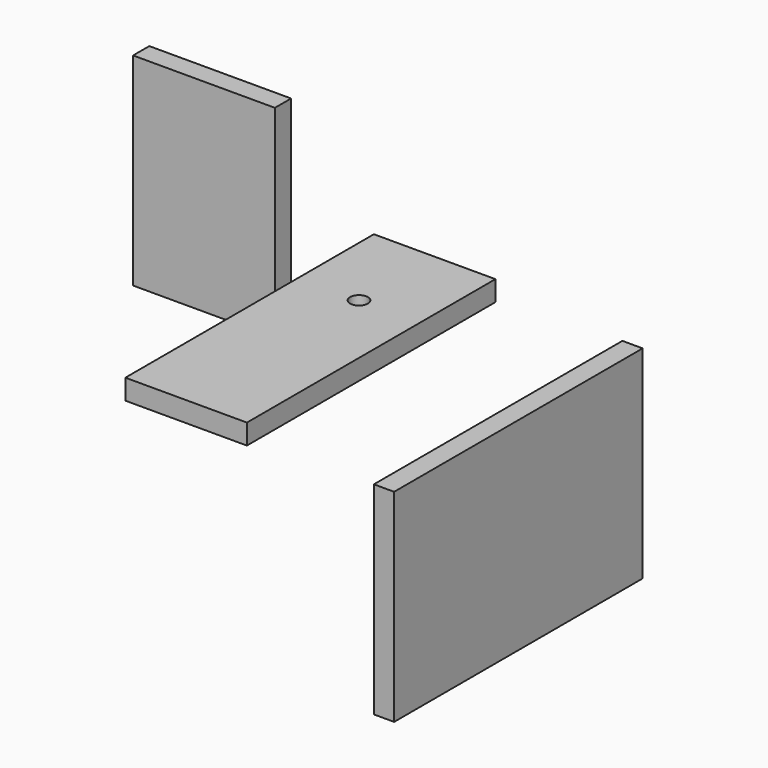
from build123d import *

# Parameters (mm, degrees)
F0_W     = 114.3
F0_H     = 292.1
F0_R     = 8.334375
F1_DEPTH = 19.05
F2_W     = 292.1
F2_H     = 190.5
F3_DEPTH = 19.05
F4_W     = 133.35
F4_H     = 190.5
F5_DEPTH = 19.05


with BuildPart() as f1:
    # F0 (on Top) → F1 (new body)
    with BuildSketch(Plane.XY):
        with Locations((57.15, -146.05)):
            Rectangle(F0_W, F0_H)
        with Locations((57.15, -88.9)):
            Circle(F0_R, mode=Mode.SUBTRACT)
    extrude(amount=F1_DEPTH)


with BuildPart() as f3:
    # F2 (on Right) → F3 (new body)
    with BuildSketch(Plane.YZ):
        with Locations((146.05, -283.218129)):
            Rectangle(F2_W, F2_H)
    extrude(amount=F3_DEPTH)


with BuildPart() as f5:
    # F4 (on Front) → F5 (new body)
    with BuildSketch(Plane.XZ):
        with Locations((-144.511365, 10.868286)):
            Rectangle(F4_W, F4_H)
    extrude(amount=F5_DEPTH)


solid = Compound([f1.part, f3.part, f5.part])
